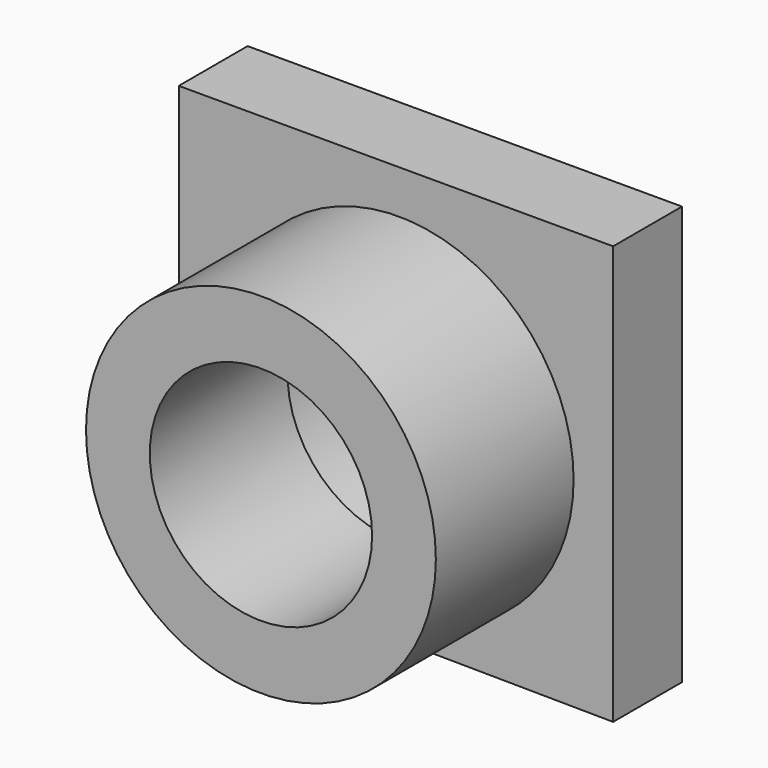
from build123d import *

# Parameters (mm, degrees)
F1_R     = 40.425581
F2_DEPTH = 25.4
F3_R     = 51.609341
F4_DEPTH = 50.8
F5_R     = 32.796001
F6_DEPTH = 76.2


with BuildPart() as f2:
    # F1 (on face) → F2 (new body)
    with BuildSketch(Plane.XZ):
        Polygon((63.269094, -55.995453), (63.269094, 67.540914), (-64.885452, 67.540914), (-64.885452, 55.995453), (-64.885452, -54.840911), align=None)
        with Locations((0, 3.117273)):
            Circle(F1_R, mode=Mode.SUBTRACT)
    extrude(amount=F2_DEPTH)

    # F3 (on face) → F4 (join)
    with BuildSketch(Plane.XZ.offset(25.4)):
        with Locations((0, 3.117273)):
            Circle(F3_R)
    extrude(amount=F4_DEPTH)

    # F5 (on face) → F6 (cut)
    with BuildSketch(Plane.XZ.offset(76.2)):
        with Locations((0, 3.117273)):
            Circle(F5_R)
    extrude(amount=-F6_DEPTH, mode=Mode.SUBTRACT)


solid = f2.part
